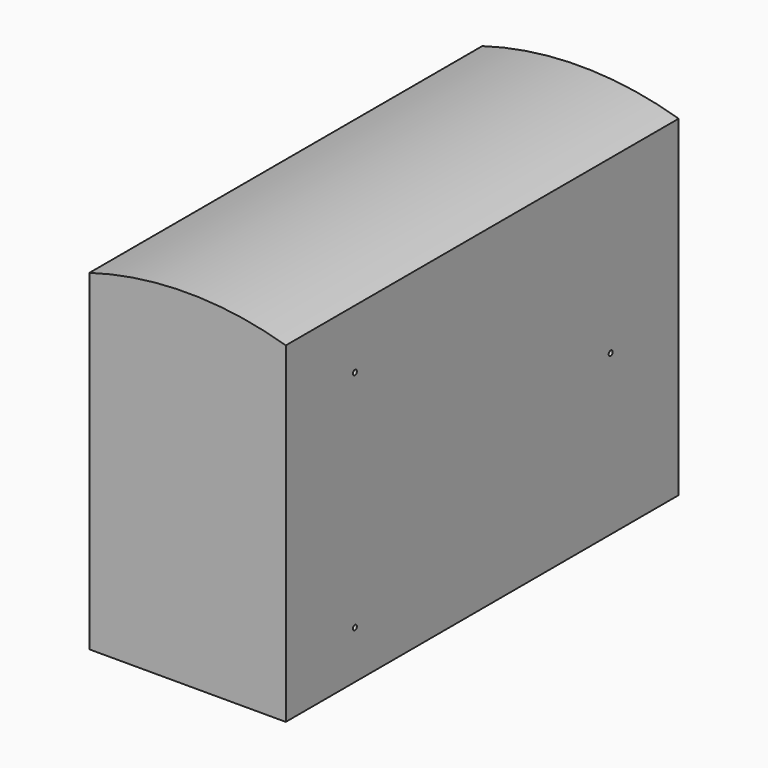
from build123d import *

# Parameters (mm, degrees)
F1_DEPTH = 127
F3_D     = 2.54


with BuildPart() as f1:
    # F0 (on Front) → F1 (new body, symmetric)
    with BuildSketch(Plane.XZ):
        with BuildLine():
            Line((-51.179101, 88.935642), (-51.179101, -82.514358))
            Line((-51.179101, -82.514358), (50.420899, -82.514358))
            Line((50.420899, -82.514358), (50.420899, 88.935642))
            ThreePointArc((50.420899, 88.935642), (-0.379101, 96.347262), (-51.179101, 88.935642))
        make_face()
    extrude(amount=F1_DEPTH, both=True)

    # F3 (through all)
    with Locations(Plane.YZ.offset(50.420899)):
        with Locations((-82.300797, 58.435276), (-82.300797, -57.759952), (83.053954, 0)):
            Hole(F3_D / 2)


solid = f1.part
